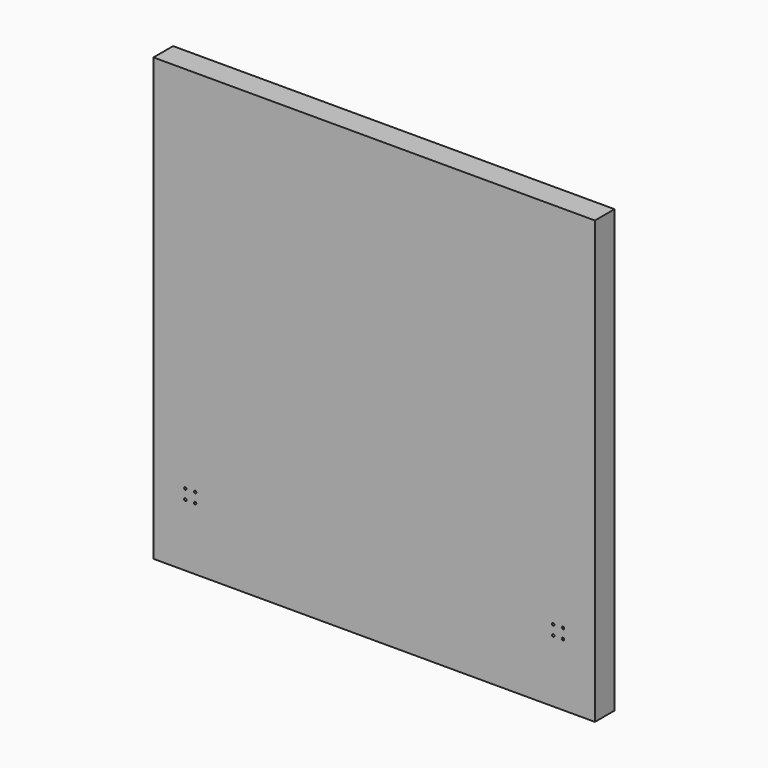
from build123d import *

# Parameters (mm, degrees)
F0_W     = 1800
F0_H     = 1800
F1_DEPTH = 50
F3_D     = 10
F3_DEPTH = 10
F3_TIP   = 3.0043030951


with BuildPart() as f1:
    # F0 (on Front) → F1 (new body, symmetric)
    with BuildSketch(Plane.XZ):
        Rectangle(F0_W, F0_H)
    extrude(amount=F1_DEPTH, both=True)

    # F3
    with Locations(Plane.XZ.offset(50)):
        with Locations((-770, -605), (-730, -605), (-730, -645), (-770, -645), (730, -605), (770, -605), (770, -645), (730, -645)):
            Hole(F3_D / 2, depth=F3_DEPTH)
            with Locations((0, 0, -(F3_DEPTH + F3_TIP / 2))):  # 118° drill point
                Cone(0, F3_D / 2, F3_TIP, mode=Mode.SUBTRACT)


solid = f1.part
